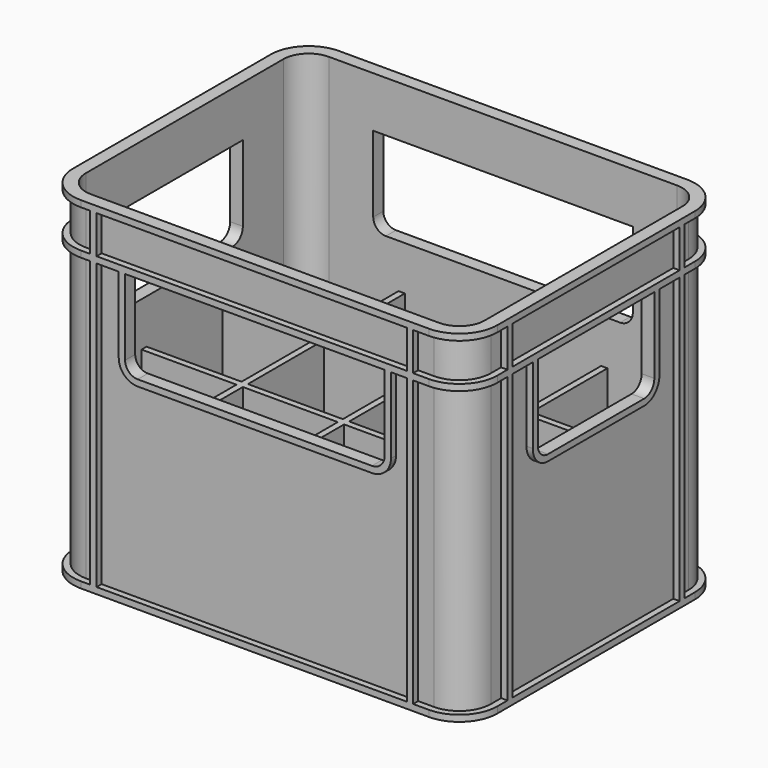
from build123d import *

# Parameters (mm, degrees)
PAD_DEPTH              = 54
THICKNESS_T            = -1
SKETCH001_W            = 1
SKETCH001_H            = 49
PAD001_DEPTH           = 25
LINEARPATTERN_COUNT    = 3
LINEARPATTERN_PITCH    = 16
SKETCH002_W            = 65
SKETCH002_H            = 1
PAD002_DEPTH           = 25
LINEARPATTERN001_COUNT = 2
LINEARPATTERN001_PITCH = 16
SKETCH003_W            = 1
SKETCH003_H            = 54
PAD003_DEPTH           = 1
SKETCH004_W            = 1
SKETCH004_H            = 54
PAD004_DEPTH           = 1
PAD006_DEPTH           = 1
LINEARPATTERN002_COUNT = 2
LINEARPATTERN002_PITCH = 46
LINEARPATTERN003_COUNT = 2
LINEARPATTERN003_PITCH = 53
POCKET_DEPTH           = 50.001
POCKET001_DEPTH        = 66.001
PAD007_DEPTH           = 1


with BuildPart() as part:
    # Sketch → Pad (new body)
    with BuildSketch(Plane.XY):
        with BuildLine():
            Line((-27.5, -24.5), (27.5, -24.5))
            ThreePointArc((27.5, -24.5), (31.035534, -23.035534), (32.5, -19.5))
            Line((32.5, -19.5), (32.5, 19.5))
            ThreePointArc((32.5, 19.5), (31.035534, 23.035534), (27.5, 24.5))
            Line((27.5, 24.5), (-27.5, 24.5))
            ThreePointArc((-27.5, 24.5), (-31.035534, 23.035534), (-32.5, 19.5))
            Line((-32.5, 19.5), (-32.5, -19.5))
            ThreePointArc((-32.5, -19.5), (-31.035534, -23.035534), (-27.5, -24.5))
        make_face()
    extrude(amount=PAD_DEPTH)

    # Thickness
    thickness_openings = [part.faces().sort_by_distance(p)[0] for p in [
        (0, 0, 54),
    ]]
    offset(amount=THICKNESS_T, openings=thickness_openings)

    # Sketch001 → Pad001 (join)
    with BuildSketch(Plane.XY):
        with Locations((-16, 0)):
            Rectangle(SKETCH001_W, SKETCH001_H)
    pad001 = extrude(amount=PAD001_DEPTH)

    # LinearPattern: Pad001 ×3
    with Locations(*[(i * LINEARPATTERN_PITCH, 0, 0) for i in range(1, LINEARPATTERN_COUNT)]):
        add(pad001)

    # Sketch002 → Pad002 (join)
    with BuildSketch(Plane.XY):
        with Locations((0, -8)):
            Rectangle(SKETCH002_W, SKETCH002_H)
    pad002 = extrude(amount=PAD002_DEPTH)

    # LinearPattern001: Pad002 ×2
    with Locations(*[(0, i * LINEARPATTERN001_PITCH, 0) for i in range(1, LINEARPATTERN001_COUNT)]):
        add(pad002)

    # Sketch003 (on Face1 of Pad) → Pad003 (join)
    with BuildSketch(Plane.XZ.offset(24.5)):
        with Locations((-25.5, 27)):
            Rectangle(SKETCH003_W, SKETCH003_H)
        with Locations((24.5, 27)):
            Rectangle(SKETCH003_W, SKETCH003_H)
        with BuildLine():
            Line((-21.5, 47), (21.5, 47))
            Line((21.5, 47), (21.5, 34))
            ThreePointArc((18.5, 31), (20.62132, 31.87868), (21.5, 34))
            Line((18.5, 31), (-18.5, 31))
            ThreePointArc((-21.5, 34), (-20.62132, 31.87868), (-18.5, 31))
            Line((-21.5, 34), (-21.5, 47))
        make_face()
        with BuildLine():
            Line((-20.5, 46), (20.5, 46))
            Line((20.5, 46), (20.5, 34))
            ThreePointArc((18.5, 32), (19.914214, 32.585786), (20.5, 34))
            Line((18.5, 32), (-18.5, 32))
            ThreePointArc((-20.5, 34), (-19.914214, 32.585786), (-18.5, 32))
            Line((-20.5, 34), (-20.5, 46))
        make_face(mode=Mode.SUBTRACT)
    pad003 = extrude(amount=PAD003_DEPTH)

    # Mirrored001: Pad003 across XZ
    add(pad003.mirror(Plane.XZ))

    # Sketch004 (on Face3 of Pad) → Pad004 (join)
    with BuildSketch(Plane.YZ.offset(32.5)):
        with Locations((-17, 27)):
            Rectangle(SKETCH004_W, SKETCH004_H)
        with Locations((17, 27)):
            Rectangle(SKETCH004_W, SKETCH004_H)
        with BuildLine():
            Line((-12.5, 47), (12.5, 47))
            Line((12.5, 47), (12.5, 34))
            ThreePointArc((9.5, 31), (11.62132, 31.87868), (12.5, 34))
            Line((9.5, 31), (-9.5, 31))
            ThreePointArc((-12.5, 34), (-11.62132, 31.87868), (-9.5, 31))
            Line((-12.5, 34), (-12.5, 47))
        make_face()
        with BuildLine():
            Line((-11.5, 46), (11.5, 46))
            Line((11.5, 46), (11.5, 34))
            ThreePointArc((9.5, 32), (10.914214, 32.585786), (11.5, 34))
            Line((9.5, 32), (-9.5, 32))
            ThreePointArc((-11.5, 34), (-10.914214, 32.585786), (-9.5, 32))
            Line((-11.5, 34), (-11.5, 46))
        make_face(mode=Mode.SUBTRACT)
    pad004 = extrude(amount=PAD004_DEPTH)

    # Mirrored: Pad004 across YZ
    add(pad004.mirror(Plane.YZ))

    # Sketch005 → Pad006 (join)
    with BuildSketch(Plane.XY):
        with BuildLine():
            Line((-27.5, 25.5), (27.5, 25.5))
            ThreePointArc((33.5, 19.5), (31.742641, 23.742641), (27.5, 25.5))
            Line((33.5, 19.5), (33.5, -19.5))
            ThreePointArc((27.5, -25.5), (31.742641, -23.742641), (33.5, -19.5))
            Line((27.5, -25.5), (-27.5, -25.5))
            ThreePointArc((-33.5, -19.5), (-31.742641, -23.742641), (-27.5, -25.5))
            Line((-33.5, -19.5), (-33.5, 19.5))
            ThreePointArc((-27.5, 25.5), (-31.742641, 23.742641), (-33.5, 19.5))
        make_face()
        with BuildLine():
            Line((-27.5, -24.5), (27.5, -24.5))
            ThreePointArc((27.5, -24.5), (31.035534, -23.035534), (32.5, -19.5))
            Line((32.5, -19.5), (32.5, 19.5))
            ThreePointArc((32.5, 19.5), (31.035534, 23.035534), (27.5, 24.5))
            Line((27.5, 24.5), (-27.5, 24.5))
            ThreePointArc((-27.5, 24.5), (-31.035534, 23.035534), (-32.5, 19.5))
            Line((-32.5, 19.5), (-32.5, -19.5))
            ThreePointArc((-32.5, -19.5), (-31.035534, -23.035534), (-27.5, -24.5))
        make_face(mode=Mode.SUBTRACT)
    pad006 = extrude(amount=PAD006_DEPTH)

    # LinearPattern002: Pad006 ×2
    with Locations(*[(0, 0, i * LINEARPATTERN002_PITCH) for i in range(1, LINEARPATTERN002_COUNT)]):
        add(pad006)

    # LinearPattern003: Pad006 ×2
    with Locations(*[(0, 0, i * LINEARPATTERN003_PITCH) for i in range(1, LINEARPATTERN003_COUNT)]):
        add(pad006)

    # Sketch006 (on Face1 of Pad) → Pocket (cut, through all)
    with BuildSketch(Plane.XZ.offset(24.5)):
        with BuildLine():
            Line((-20.5, 46), (20.5, 46))
            Line((20.5, 46), (20.5, 34))
            ThreePointArc((18.5, 32), (19.914214, 32.585786), (20.5, 34))
            Line((18.5, 32), (-18.5, 32))
            ThreePointArc((-20.5, 34), (-19.914214, 32.585786), (-18.5, 32))
            Line((-20.5, 34), (-20.5, 46))
        make_face()
    extrude(amount=-POCKET_DEPTH, mode=Mode.SUBTRACT)

    # Sketch007 (on Face3 of Pad) → Pocket001 (cut, through all)
    with BuildSketch(Plane.YZ.offset(32.5)):
        with BuildLine():
            Line((-11.5, 46), (11.5, 46))
            Line((11.5, 46), (11.5, 34))
            ThreePointArc((9.5, 32), (10.914214, 32.585786), (11.5, 34))
            Line((9.5, 32), (-9.5, 32))
            ThreePointArc((-11.5, 34), (-10.914214, 32.585786), (-9.5, 32))
            Line((-11.5, 34), (-11.5, 46))
        make_face()
    extrude(amount=-POCKET001_DEPTH, mode=Mode.SUBTRACT)

    # Sketch008 → Pad007 (join)
    with BuildSketch(Plane.XY):
        with BuildLine():
            Line((-27.5, 23.5), (27.5, 23.5))
            ThreePointArc((31.5, 19.5), (30.328427, 22.328427), (27.5, 23.5))
            Line((31.5, 19.5), (31.5, -19.5))
            ThreePointArc((27.5, -23.5), (30.328427, -22.328427), (31.5, -19.5))
            Line((27.5, -23.5), (-27.5, -23.5))
            ThreePointArc((-31.5, -19.5), (-30.328427, -22.328427), (-27.5, -23.5))
            Line((-31.5, -19.5), (-31.5, 19.5))
            ThreePointArc((-27.5, 23.5), (-30.328427, 22.328427), (-31.5, 19.5))
        make_face()
        with BuildLine():
            Line((-27.5, 22.5), (27.5, 22.5))
            ThreePointArc((30.5, 19.5), (29.62132, 21.62132), (27.5, 22.5))
            Line((30.5, 19.5), (30.5, -19.5))
            ThreePointArc((27.5, -22.5), (29.62132, -21.62132), (30.5, -19.5))
            Line((27.5, -22.5), (-27.5, -22.5))
            ThreePointArc((-30.5, -19.5), (-29.62132, -21.62132), (-27.5, -22.5))
            Line((-30.5, -19.5), (-30.5, 19.5))
            ThreePointArc((-27.5, 22.5), (-29.62132, 21.62132), (-30.5, 19.5))
        make_face(mode=Mode.SUBTRACT)
    extrude(amount=-PAD007_DEPTH)


solid = part.part
